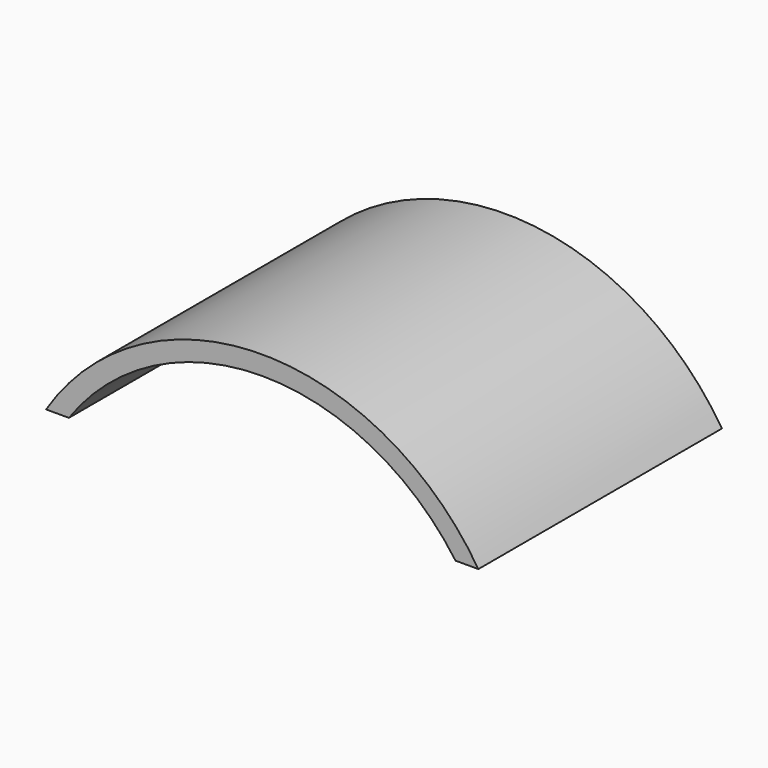
from build123d import *

# Parameters (mm, degrees)
PAD_DEPTH = 20


with BuildPart() as part:
    # Sketch → Pad (new body)
    with BuildSketch(Plane.XZ):
        with BuildLine():
            ThreePointArc((14.2, 9.025641), (0, 16.825641), (-14.2, 9.025641))
            Line((-14.2, 9.025641), (-12.7, 9.025641))
            ThreePointArc((12.7, 9.025641), (0, 15.580507), (-12.7, 9.025641))
            Line((12.7, 9.025641), (14.2, 9.025641))
        make_face()
    extrude(amount=PAD_DEPTH)


solid = part.part
